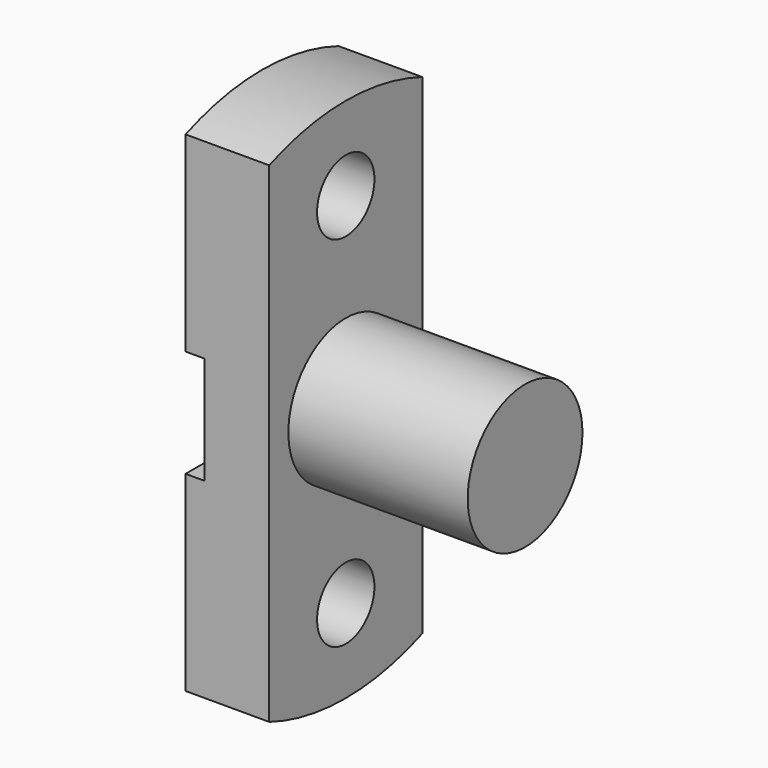
from build123d import *

# Parameters (mm, degrees)
F0_R          = 15
F1_DEPTH      = 35
F2_R          = 30
F3_DEPTH      = 75
F4_W          = 8
F4_H          = 45
F5_DEPTH      = 40.001
F5_DEPTH_BACK = 40.001


with BuildPart() as f1:
    # F0 (on Right) → F1 (new body)
    with BuildSketch(Plane.YZ):
        with BuildLine():
            Line((-40, 102.4695076596), (-40, -102.4695076596))
            ThreePointArc((-40, -102.4695076596), (0, -110), (40, -102.4695076596))
            Line((40, -102.4695076596), (40, 102.4695076596))
            ThreePointArc((40, 102.4695076596), (0, 110), (-40, 102.4695076596))
        make_face()
        with Locations((0, -75)):
            Circle(F0_R, mode=Mode.SUBTRACT)
        with Locations((0, 75)):
            Circle(F0_R, mode=Mode.SUBTRACT)
    extrude(amount=F1_DEPTH)

    # F2 (on face) → F3 (join)
    with BuildSketch(Plane.YZ.offset(35)):
        Circle(F2_R)
    extrude(amount=F3_DEPTH)

    # F4 (on Front) → F5 (cut, two sides)
    with BuildSketch(Plane.XZ) as f5_sk:
        with Locations((4, 0)):
            Rectangle(F4_W, F4_H)
    extrude(amount=-F5_DEPTH, mode=Mode.SUBTRACT)
    extrude(f5_sk.sketch, amount=F5_DEPTH_BACK, mode=Mode.SUBTRACT)


solid = f1.part
